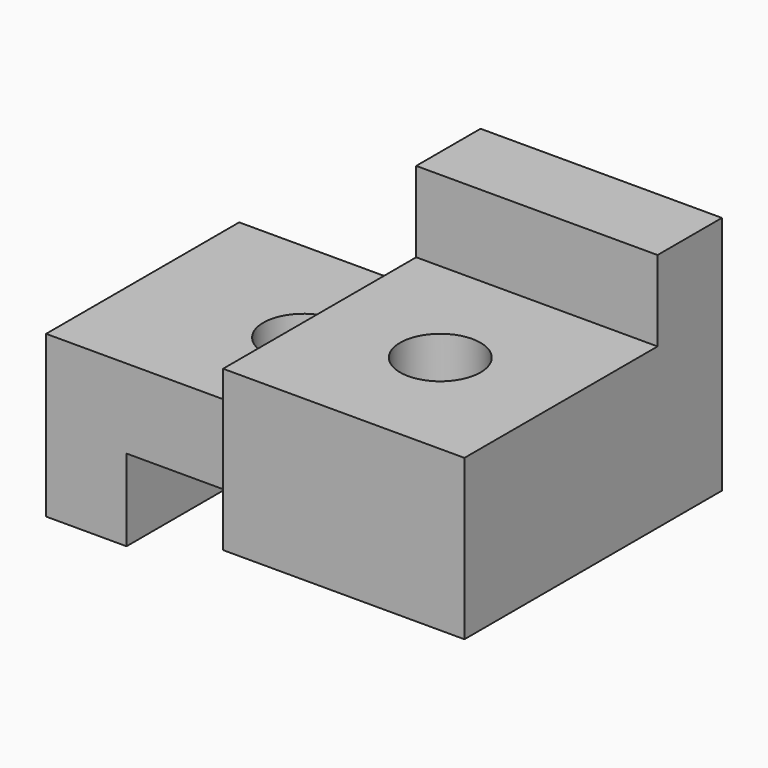
from build123d import *

# Parameters (mm, degrees)
F0_W     = 38.1
F0_H     = 25.4
F1_DEPTH = 25.4
F2_W     = 19.05
F2_H     = 12.7
F2_W_2   = 31.75
F2_H_2   = 6.446304
F3_DEPTH = 25.401
F4_W     = 19.05
F4_H     = 6.35
F5_DEPTH = 19.05
F6_W     = 19.05
F6_H     = 6.35
F7_DEPTH = 12.701
F8_R     = 3.175
F9_DEPTH = 19.051


with BuildPart() as f1:
    # F0 (on Front) → F1 (new body)
    with BuildSketch(Plane.XZ):
        with Locations((19.05, 12.7)):
            Rectangle(F0_W, F0_H)
    extrude(amount=F1_DEPTH)

    # F2 (on face) → F3 (cut, through all)
    with BuildSketch(Plane.XZ.offset(25.4)):
        with Locations((9.525, 19.05)):
            Rectangle(F2_W, F2_H)
        with Locations((22.225, 3.223152)):
            Rectangle(F2_W_2, F2_H_2)
    extrude(amount=-F3_DEPTH, mode=Mode.SUBTRACT)

    # F4 (on face) → F5 (cut)
    with BuildSketch(Plane.XZ.offset(25.4)):
        with Locations((28.575, 22.225)):
            Rectangle(F4_W, F4_H)
    extrude(amount=-F5_DEPTH, mode=Mode.SUBTRACT)

    # F6 (on face) → F7 (cut, through all)
    with BuildSketch(Plane.XY.offset(12.7)):
        with Locations((9.525, -22.225)):
            Rectangle(F6_W, F6_H)
    extrude(amount=-F7_DEPTH, mode=Mode.SUBTRACT)

    # F8 (on face) → F9 (cut, through all)
    with BuildSketch(Plane.XY.offset(19.05)):
        with Locations((28.575, -15.875)):
            Circle(F8_R)
        with Locations((12.7, -9.525)):
            Circle(F8_R)
    extrude(amount=-F9_DEPTH, mode=Mode.SUBTRACT)


solid = f1.part
